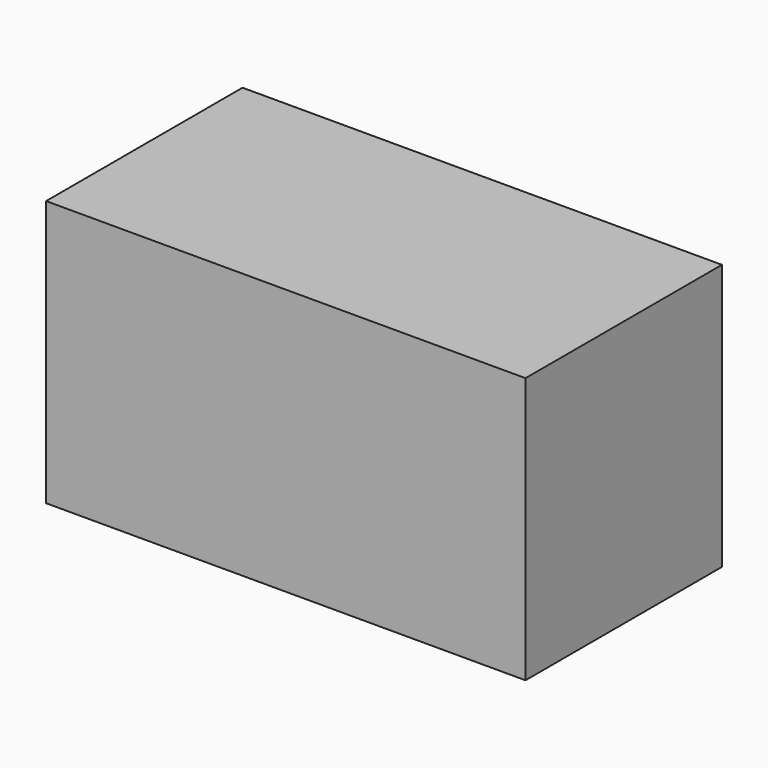
from build123d import *

# Parameters (mm, degrees)
F1_W     = 91.562539
F1_H     = 46.891235
F2_DEPTH = 50.8


with BuildPart() as f2:
    # F1 (on face) → F2 (new body)
    with BuildSketch(Plane.XY):
        with Locations((-45.78127, 23.445617)):
            Rectangle(F1_W, F1_H)
    extrude(amount=F2_DEPTH)


solid = f2.part
